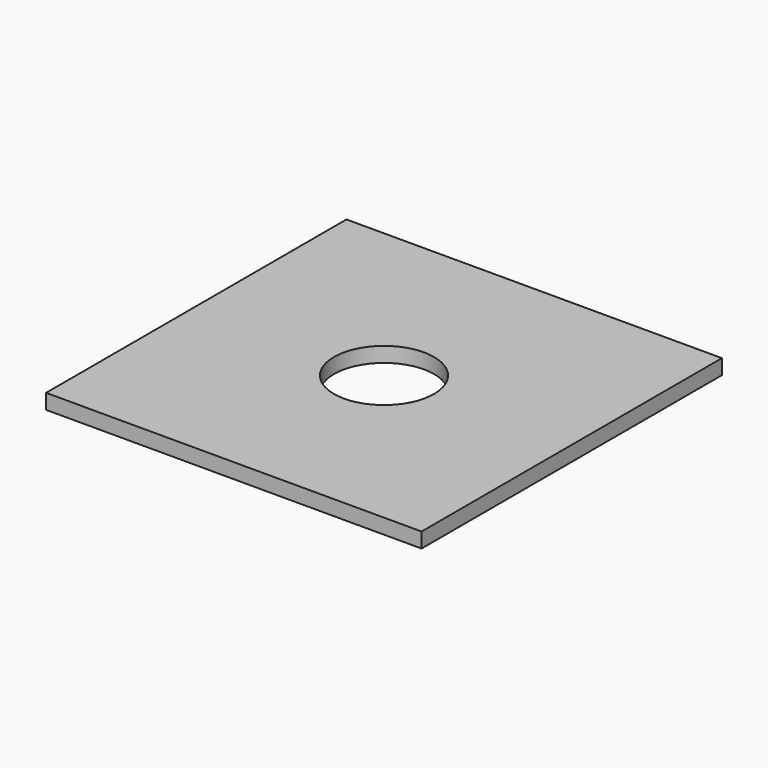
from build123d import *

# Parameters (mm, degrees)
BOX_W          = 75
BOX_H          = 75
BOX_DEPTH      = 3
CYLINDER_R     = 10
CYLINDER_DEPTH = 3


with BuildPart() as part:
    # Box → Box (join)
    with BuildSketch(Plane.XY):
        with Locations((37.5, 37.5)):
            Rectangle(BOX_W, BOX_H)
    extrude(amount=BOX_DEPTH)

    # Cylinder → Cylinder (cut)
    with BuildSketch(Plane(origin=(37.5, 37.5, 0), x_dir=(0, -1, 0), z_dir=(0, 0, 1))):
        Circle(CYLINDER_R)
    extrude(amount=CYLINDER_DEPTH, mode=Mode.SUBTRACT)


solid = part.part
